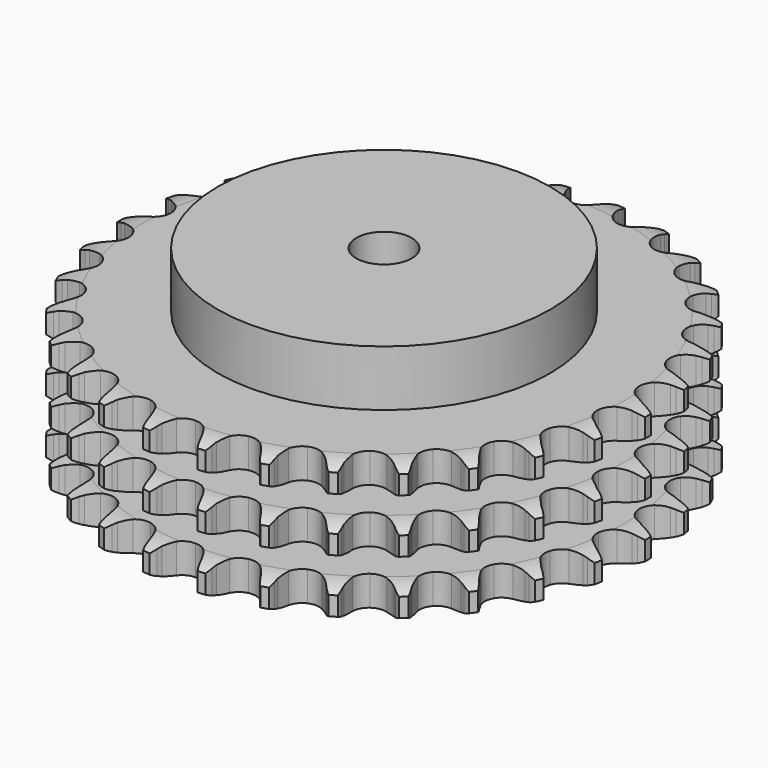
from build123d import *

# Parameters (mm, degrees)
PAD_DEPTH         = 49.8
SKETCH001_R       = 60
PAD001_DEPTH      = 70
SKETCH002_R       = 10
POCKET_DEPTH      = 0.001
POCKET_DEPTH_BACK = 70.001


with BuildPart() as part:
    # Sprocket → Pad (new body)
    with BuildSketch(Plane.XY):
        with BuildLine():
            ThreePointArc((-10.155366, 96.621854), (-8.659477, 94.892726), (-7.602598, 92.86527))
            Line((-7.602598, 92.86527), (-7.014029, 91.321265))
            ThreePointArc((-7.014029, 91.321265), (-6.080629, 89.310426), (-4.874292, 87.450463))
            ThreePointArc((-4.874292, 87.450463), (-2.723268, 85.661475), (0, 85.020231))
            ThreePointArc((0, 85.020231), (2.723268, 85.661475), (4.874292, 87.450463))
            ThreePointArc((4.874292, 87.450463), (6.080629, 89.310426), (7.014029, 91.321265))
            Line((7.014029, 91.321265), (7.602598, 92.86527))
            ThreePointArc((7.602598, 92.86527), (8.659477, 94.892726), (10.155366, 96.621854))
            ThreePointArc((10.155366, 96.621854), (11.259061, 94.619499), (11.871312, 92.41661))
            Line((11.871312, 92.41661), (12.126003, 90.783975))
            ThreePointArc((12.126003, 90.783975), (12.62093, 88.623013), (13.414196, 86.552883))
            ThreePointArc((13.414196, 86.552883), (15.146264, 84.355766), (17.6767, 83.162335))
            ThreePointArc((17.6767, 83.162335), (20.47378, 83.223367), (22.949751, 84.526038))
            Line((22.949751, 84.526038), (25.847514, 87.867378))
            ThreePointArc((25.847514, 87.867378), (26.277674, 88.573086), (26.744239, 89.255272))
            ThreePointArc((26.744239, 89.255272), (28.199553, 91.018686), (30.02226, 92.399016))
            ThreePointArc((30.02226, 92.399016), (30.685523, 90.210945), (30.826389, 87.928901))
            Line((30.826389, 87.928901), (30.736071, 86.27899))
            ThreePointArc((30.736071, 86.27899), (30.770892, 84.062349), (31.11642, 81.872526))
            ThreePointArc((31.11642, 81.872526), (32.353832, 79.363304), (34.580843, 77.669845))
            ThreePointArc((34.580843, 77.669845), (37.32949, 77.147999), (40.022195, 77.90742))
            Line((40.022195, 77.90742), (43.551339, 80.573264))
            ThreePointArc((43.551339, 80.573264), (44.118823, 81.174116), (44.717027, 81.744391))
            ThreePointArc((44.717027, 81.744391), (46.507174, 83.166693), (48.577037, 84.137897))
            ThreePointArc((48.577037, 84.137897), (48.770881, 81.859741), (48.434205, 79.598277))
            Line((48.434205, 79.598277), (48.002824, 78.003198))
            ThreePointArc((48.002824, 78.003198), (47.57602, 75.827756), (47.458707, 73.613948))
            ThreePointArc((47.458707, 73.613948), (48.147382, 70.902286), (49.973638, 68.782811))
            ThreePointArc((49.973638, 68.782811), (52.553722, 67.700892), (55.345478, 67.883874))
            Line((55.345478, 67.883874), (59.351762, 69.757713))
            ThreePointArc((59.351762, 69.757713), (60.031769, 70.227448), (60.735467, 70.660887))
            ThreePointArc((60.735467, 70.660887), (62.782209, 71.679916), (65.008765, 72.199548))
            ThreePointArc((65.008765, 72.199548), (64.724718, 69.930873), (63.925214, 67.788826))
            Line((63.925214, 67.788826), (63.171624, 66.318293))
            ThreePointArc((63.171624, 66.318293), (62.301846, 64.279127), (61.726821, 62.138086))
            ThreePointArc((61.726821, 62.138086), (61.83666, 59.342497), (63.182344, 56.889638))
            ThreePointArc((63.182344, 56.889638), (65.481104, 55.294932), (68.249897, 54.893476))
            Line((68.249897, 54.893476), (72.558227, 55.893414))
            ThreePointArc((72.558227, 55.893414), (73.321038, 56.211503), (74.099476, 56.489163))
            ThreePointArc((74.099476, 56.489163), (76.313359, 57.060382), (78.599297, 57.105732))
            ThreePointArc((78.599297, 57.105732), (77.849773, 54.94569), (76.622384, 53.016678))
            Line((76.622384, 53.016678), (75.579521, 51.73496))
            ThreePointArc((75.579521, 51.73496), (74.304784, 49.921192), (73.297176, 47.946492))
            ThreePointArc((73.297176, 47.946492), (72.82338, 45.189157), (73.629679, 42.510115))
            ThreePointArc((73.629679, 42.510115), (75.546647, 40.472318), (78.171469, 39.503971))
            Line((78.171469, 39.503971), (82.59355, 39.586305))
            ThreePointArc((82.59355, 39.586305), (83.405826, 39.738846), (84.224982, 39.848592))
            ThreePointArc((84.224982, 39.848592), (86.50925, 39.947036), (88.754664, 39.516122))
            ThreePointArc((88.754664, 39.516122), (87.57242, 37.559117), (85.970788, 35.927447))
            Line((85.970788, 35.927447), (84.68423, 34.890561))
            ThreePointArc((84.68423, 34.890561), (83.060245, 33.381461), (81.664094, 31.659407))
            ThreePointArc((81.664094, 31.659407), (80.627368, 29.060833), (80.859044, 26.272696))
            ThreePointArc((80.859044, 26.272696), (82.31044, 23.88087), (84.676572, 22.387952))
            Line((84.676572, 22.387952), (89.019139, 21.549085))
            ThreePointArc((89.019139, 21.549085), (89.845379, 21.52941), (90.669453, 21.466446))
            ThreePointArc((90.669453, 21.466446), (92.924271, 21.087813), (95.031025, 20.199468))
            ThreePointArc((95.031025, 20.199468), (93.467732, 18.53103), (91.561857, 17.268014))
            Line((91.561857, 17.268014), (90.087832, 16.521277))
            ThreePointArc((90.087832, 16.521277), (88.185575, 15.3828), (86.461898, 13.988653))
            ThreePointArc((86.461898, 13.988653), (84.907553, 11.662412), (84.554481, 8.887034))
            ThreePointArc((84.554481, 8.887034), (85.476872, 6.245713), (87.480902, 4.293472))
            Line((87.480902, 4.293472), (91.554163, 2.570066))
            ThreePointArc((91.554163, 2.570066), (92.358258, 2.379036), (93.151233, 2.146114))
            ThreePointArc((93.151233, 2.146114), (95.278056, 1.306952), (97.154075, 0))
            ThreePointArc((97.154075, 0), (95.278056, -1.306952), (93.151233, -2.146114))
            Line((93.151233, -2.146114), (91.554163, -2.570066))
            ThreePointArc((91.554163, -2.570066), (89.456773, -3.288163), (87.480902, -4.293472))
            ThreePointArc((87.480902, -4.293472), (85.476872, -6.245713), (84.554481, -8.887034))
            ThreePointArc((84.554481, -8.887034), (84.907553, -11.662412), (86.461898, -13.988653))
            Line((86.461898, -13.988653), (90.087832, -16.521277))
            ThreePointArc((90.087832, -16.521277), (90.834638, -16.875313), (91.561857, -17.268014))
            ThreePointArc((91.561857, -17.268014), (93.467732, -18.53103), (95.031025, -20.199468))
            ThreePointArc((95.031025, -20.199468), (92.924271, -21.087813), (90.669453, -21.466446))
            Line((90.669453, -21.466446), (89.019139, -21.549085))
            ThreePointArc((89.019139, -21.549085), (86.81828, -21.815418), (84.676572, -22.387952))
            ThreePointArc((84.676572, -22.387952), (82.31044, -23.88087), (80.859044, -26.272696))
            ThreePointArc((80.859044, -26.272696), (80.627368, -29.060833), (81.664094, -31.659407))
            Line((81.664094, -31.659407), (84.68423, -34.890561))
            ThreePointArc((84.68423, -34.890561), (85.341109, -35.39213), (85.970788, -35.927447))
            ThreePointArc((85.970788, -35.927447), (87.57242, -37.559117), (88.754664, -39.516122))
            ThreePointArc((88.754664, -39.516122), (86.50925, -39.947036), (84.224982, -39.848592))
            Line((84.224982, -39.848592), (82.59355, -39.586305))
            ThreePointArc((82.59355, -39.586305), (80.385412, -39.389234), (78.171469, -39.503971))
            ThreePointArc((78.171469, -39.503971), (75.546647, -40.472318), (73.629679, -42.510115))
            ThreePointArc((73.629679, -42.510115), (72.82338, -45.189157), (73.297176, -47.946492))
            Line((73.297176, -47.946492), (75.579521, -51.73496))
            ThreePointArc((75.579521, -51.73496), (76.117763, -52.362141), (76.622384, -53.016678))
            ThreePointArc((76.622384, -53.016678), (77.849773, -54.94569), (78.599297, -57.105732))
            ThreePointArc((78.599297, -57.105732), (76.313359, -57.060382), (74.099476, -56.489163))
            Line((74.099476, -56.489163), (72.558227, -55.893414))
            ThreePointArc((72.558227, -55.893414), (70.439316, -55.241552), (68.249897, -54.893476))
            ThreePointArc((68.249897, -54.893476), (65.481104, -55.294932), (63.182344, -56.889638))
            ThreePointArc((63.182344, -56.889638), (61.83666, -59.342497), (61.726821, -62.138086))
            Line((61.726821, -62.138086), (63.171624, -66.318293))
            ThreePointArc((63.171624, -66.318293), (63.567706, -67.043676), (63.925214, -67.788826))
            ThreePointArc((63.925214, -67.788826), (64.724718, -69.930873), (65.008765, -72.199548))
            ThreePointArc((65.008765, -72.199548), (62.782209, -71.679916), (60.735467, -70.660887))
            Line((60.735467, -70.660887), (59.351762, -69.757713))
            ThreePointArc((59.351762, -69.757713), (57.414683, -68.679549), (55.345478, -67.883874))
            ThreePointArc((55.345478, -67.883874), (52.553722, -67.700892), (49.973638, -68.782811))
            ThreePointArc((49.973638, -68.782811), (48.147382, -70.902286), (47.458707, -73.613948))
            Line((47.458707, -73.613948), (48.002824, -78.003198))
            ThreePointArc((48.002824, -78.003198), (48.239435, -78.79508), (48.434205, -79.598277))
            ThreePointArc((48.434205, -79.598277), (48.770881, -81.859741), (48.577037, -84.137897))
            ThreePointArc((48.577037, -84.137897), (46.507174, -83.166693), (44.717027, -81.744391))
            Line((44.717027, -81.744391), (43.551339, -80.573264))
            ThreePointArc((43.551339, -80.573264), (41.880753, -79.11592), (40.022195, -77.90742))
            ThreePointArc((40.022195, -77.90742), (37.32949, -77.147999), (34.580843, -77.669845))
            ThreePointArc((34.580843, -77.669845), (32.353832, -79.363304), (31.11642, -81.872526))
            Line((31.11642, -81.872526), (30.736071, -86.27899))
            ThreePointArc((30.736071, -86.27899), (30.802869, -87.102761), (30.826389, -87.928901))
            ThreePointArc((30.826389, -87.928901), (30.685523, -90.210945), (30.02226, -92.399016))
            ThreePointArc((30.02226, -92.399016), (28.199553, -91.018686), (26.744239, -89.255272))
            Line((26.744239, -89.255272), (25.847514, -87.867378))
            ThreePointArc((25.847514, -87.867378), (24.516434, -86.094545), (22.949751, -84.526038))
            ThreePointArc((22.949751, -84.526038), (20.47378, -83.223367), (17.6767, -83.162335))
            ThreePointArc((17.6767, -83.162335), (15.146264, -84.355766), (13.414196, -86.552883))
            Line((13.414196, -86.552883), (12.126003, -90.783975))
            ThreePointArc((12.126003, -90.783975), (12.02007, -91.603633), (11.871312, -92.41661))
            ThreePointArc((11.871312, -92.41661), (11.259061, -94.619499), (10.155366, -96.621854))
            ThreePointArc((10.155366, -96.621854), (8.659477, -94.892726), (7.602598, -92.86527))
            Line((7.602598, -92.86527), (7.014029, -91.321265))
            ThreePointArc((7.014029, -91.321265), (6.080629, -89.310426), (4.874292, -87.450463))
            ThreePointArc((4.874292, -87.450463), (2.723268, -85.661475), (0, -85.020231))
            ThreePointArc((0, -85.020231), (-2.723268, -85.661475), (-4.874292, -87.450463))
            Line((-4.874292, -87.450463), (-7.014029, -91.321265))
            ThreePointArc((-7.014029, -91.321265), (-7.288063, -92.100987), (-7.602598, -92.86527))
            ThreePointArc((-7.602598, -92.86527), (-8.659477, -94.892726), (-10.155366, -96.621854))
            ThreePointArc((-10.155366, -96.621854), (-11.259061, -94.619499), (-11.871312, -92.41661))
            Line((-11.871312, -92.41661), (-12.126003, -90.783975))
            ThreePointArc((-12.126003, -90.783975), (-12.62093, -88.623013), (-13.414196, -86.552883))
            ThreePointArc((-13.414196, -86.552883), (-15.146264, -84.355766), (-17.6767, -83.162335))
            ThreePointArc((-17.6767, -83.162335), (-20.47378, -83.223367), (-22.949751, -84.526038))
            Line((-22.949751, -84.526038), (-25.847514, -87.867378))
            ThreePointArc((-25.847514, -87.867378), (-26.277674, -88.573086), (-26.744239, -89.255272))
            ThreePointArc((-26.744239, -89.255272), (-28.199553, -91.018686), (-30.02226, -92.399016))
            ThreePointArc((-30.02226, -92.399016), (-30.685523, -90.210945), (-30.826389, -87.928901))
            Line((-30.826389, -87.928901), (-30.736071, -86.27899))
            ThreePointArc((-30.736071, -86.27899), (-30.770892, -84.062349), (-31.11642, -81.872526))
            ThreePointArc((-31.11642, -81.872526), (-32.353832, -79.363304), (-34.580843, -77.669845))
            ThreePointArc((-34.580843, -77.669845), (-37.32949, -77.147999), (-40.022195, -77.90742))
            Line((-40.022195, -77.90742), (-43.551339, -80.573264))
            ThreePointArc((-43.551339, -80.573264), (-44.118823, -81.174116), (-44.717027, -81.744391))
            ThreePointArc((-44.717027, -81.744391), (-46.507174, -83.166693), (-48.577037, -84.137897))
            ThreePointArc((-48.577037, -84.137897), (-48.770881, -81.859741), (-48.434205, -79.598277))
            Line((-48.434205, -79.598277), (-48.002824, -78.003198))
            ThreePointArc((-48.002824, -78.003198), (-47.57602, -75.827756), (-47.458707, -73.613948))
            ThreePointArc((-47.458707, -73.613948), (-48.147382, -70.902286), (-49.973638, -68.782811))
            ThreePointArc((-49.973638, -68.782811), (-52.553722, -67.700892), (-55.345478, -67.883874))
            Line((-55.345478, -67.883874), (-59.351762, -69.757713))
            ThreePointArc((-59.351762, -69.757713), (-60.031769, -70.227448), (-60.735467, -70.660887))
            ThreePointArc((-60.735467, -70.660887), (-62.782209, -71.679916), (-65.008765, -72.199548))
            ThreePointArc((-65.008765, -72.199548), (-64.724718, -69.930873), (-63.925214, -67.788826))
            Line((-63.925214, -67.788826), (-63.171624, -66.318293))
            ThreePointArc((-63.171624, -66.318293), (-62.301846, -64.279127), (-61.726821, -62.138086))
            ThreePointArc((-61.726821, -62.138086), (-61.83666, -59.342497), (-63.182344, -56.889638))
            ThreePointArc((-63.182344, -56.889638), (-65.481104, -55.294932), (-68.249897, -54.893476))
            Line((-68.249897, -54.893476), (-72.558227, -55.893414))
            ThreePointArc((-72.558227, -55.893414), (-73.321038, -56.211503), (-74.099476, -56.489163))
            ThreePointArc((-74.099476, -56.489163), (-76.313359, -57.060382), (-78.599297, -57.105732))
            ThreePointArc((-78.599297, -57.105732), (-77.849773, -54.94569), (-76.622384, -53.016678))
            Line((-76.622384, -53.016678), (-75.579521, -51.73496))
            ThreePointArc((-75.579521, -51.73496), (-74.304784, -49.921192), (-73.297176, -47.946492))
            ThreePointArc((-73.297176, -47.946492), (-72.82338, -45.189157), (-73.629679, -42.510115))
            ThreePointArc((-73.629679, -42.510115), (-75.546647, -40.472318), (-78.171469, -39.503971))
            Line((-78.171469, -39.503971), (-82.59355, -39.586305))
            ThreePointArc((-82.59355, -39.586305), (-83.405826, -39.738846), (-84.224982, -39.848592))
            ThreePointArc((-84.224982, -39.848592), (-86.50925, -39.947036), (-88.754664, -39.516122))
            ThreePointArc((-88.754664, -39.516122), (-87.57242, -37.559117), (-85.970788, -35.927447))
            Line((-85.970788, -35.927447), (-84.68423, -34.890561))
            ThreePointArc((-84.68423, -34.890561), (-83.060245, -33.381461), (-81.664094, -31.659407))
            ThreePointArc((-81.664094, -31.659407), (-80.627368, -29.060833), (-80.859044, -26.272696))
            ThreePointArc((-80.859044, -26.272696), (-82.31044, -23.88087), (-84.676572, -22.387952))
            Line((-84.676572, -22.387952), (-89.019139, -21.549085))
            ThreePointArc((-89.019139, -21.549085), (-89.845379, -21.52941), (-90.669453, -21.466446))
            ThreePointArc((-90.669453, -21.466446), (-92.924271, -21.087813), (-95.031025, -20.199468))
            ThreePointArc((-95.031025, -20.199468), (-93.467732, -18.53103), (-91.561857, -17.268014))
            Line((-91.561857, -17.268014), (-90.087832, -16.521277))
            ThreePointArc((-90.087832, -16.521277), (-88.185575, -15.3828), (-86.461898, -13.988653))
            ThreePointArc((-86.461898, -13.988653), (-84.907553, -11.662412), (-84.554481, -8.887034))
            ThreePointArc((-84.554481, -8.887034), (-85.476872, -6.245713), (-87.480902, -4.293472))
            Line((-87.480902, -4.293472), (-91.554163, -2.570066))
            ThreePointArc((-91.554163, -2.570066), (-92.358258, -2.379036), (-93.151233, -2.146114))
            ThreePointArc((-93.151233, -2.146114), (-95.278056, -1.306952), (-97.154075, 0))
            ThreePointArc((-97.154075, 0), (-95.278056, 1.306952), (-93.151233, 2.146114))
            Line((-93.151233, 2.146114), (-91.554163, 2.570066))
            ThreePointArc((-91.554163, 2.570066), (-89.456773, 3.288163), (-87.480902, 4.293472))
            ThreePointArc((-87.480902, 4.293472), (-85.476872, 6.245713), (-84.554481, 8.887034))
            ThreePointArc((-84.554481, 8.887034), (-84.907553, 11.662412), (-86.461898, 13.988653))
            Line((-86.461898, 13.988653), (-90.087832, 16.521277))
            ThreePointArc((-90.087832, 16.521277), (-90.834638, 16.875313), (-91.561857, 17.268014))
            ThreePointArc((-91.561857, 17.268014), (-93.467732, 18.53103), (-95.031025, 20.199468))
            ThreePointArc((-95.031025, 20.199468), (-92.924271, 21.087813), (-90.669453, 21.466446))
            Line((-90.669453, 21.466446), (-89.019139, 21.549085))
            ThreePointArc((-89.019139, 21.549085), (-86.81828, 21.815418), (-84.676572, 22.387952))
            ThreePointArc((-84.676572, 22.387952), (-82.31044, 23.88087), (-80.859044, 26.272696))
            ThreePointArc((-80.859044, 26.272696), (-80.627368, 29.060833), (-81.664094, 31.659407))
            Line((-81.664094, 31.659407), (-84.68423, 34.890561))
            ThreePointArc((-84.68423, 34.890561), (-85.341109, 35.39213), (-85.970788, 35.927447))
            ThreePointArc((-85.970788, 35.927447), (-87.57242, 37.559117), (-88.754664, 39.516122))
            ThreePointArc((-88.754664, 39.516122), (-86.50925, 39.947036), (-84.224982, 39.848592))
            Line((-84.224982, 39.848592), (-82.59355, 39.586305))
            ThreePointArc((-82.59355, 39.586305), (-80.385412, 39.389234), (-78.171469, 39.503971))
            ThreePointArc((-78.171469, 39.503971), (-75.546647, 40.472318), (-73.629679, 42.510115))
            ThreePointArc((-73.629679, 42.510115), (-72.82338, 45.189157), (-73.297176, 47.946492))
            Line((-73.297176, 47.946492), (-75.579521, 51.73496))
            ThreePointArc((-75.579521, 51.73496), (-76.117763, 52.362141), (-76.622384, 53.016678))
            ThreePointArc((-76.622384, 53.016678), (-77.849773, 54.94569), (-78.599297, 57.105732))
            ThreePointArc((-78.599297, 57.105732), (-76.313359, 57.060382), (-74.099476, 56.489163))
            Line((-74.099476, 56.489163), (-72.558227, 55.893414))
            ThreePointArc((-72.558227, 55.893414), (-70.439316, 55.241552), (-68.249897, 54.893476))
            ThreePointArc((-68.249897, 54.893476), (-65.481104, 55.294932), (-63.182344, 56.889638))
            ThreePointArc((-63.182344, 56.889638), (-61.83666, 59.342497), (-61.726821, 62.138086))
            Line((-61.726821, 62.138086), (-63.171624, 66.318293))
            ThreePointArc((-63.171624, 66.318293), (-63.567706, 67.043676), (-63.925214, 67.788826))
            ThreePointArc((-63.925214, 67.788826), (-64.724718, 69.930873), (-65.008765, 72.199548))
            ThreePointArc((-65.008765, 72.199548), (-62.782209, 71.679916), (-60.735467, 70.660887))
            Line((-60.735467, 70.660887), (-59.351762, 69.757713))
            ThreePointArc((-59.351762, 69.757713), (-57.414683, 68.679549), (-55.345478, 67.883874))
            ThreePointArc((-55.345478, 67.883874), (-52.553722, 67.700892), (-49.973638, 68.782811))
            ThreePointArc((-49.973638, 68.782811), (-48.147382, 70.902286), (-47.458707, 73.613948))
            Line((-47.458707, 73.613948), (-48.002824, 78.003198))
            ThreePointArc((-48.002824, 78.003198), (-48.239435, 78.79508), (-48.434205, 79.598277))
            ThreePointArc((-48.434205, 79.598277), (-48.770881, 81.859741), (-48.577037, 84.137897))
            ThreePointArc((-48.577037, 84.137897), (-46.507174, 83.166693), (-44.717027, 81.744391))
            Line((-44.717027, 81.744391), (-43.551339, 80.573264))
            ThreePointArc((-43.551339, 80.573264), (-41.880753, 79.11592), (-40.022195, 77.90742))
            ThreePointArc((-40.022195, 77.90742), (-37.32949, 77.147999), (-34.580843, 77.669845))
            ThreePointArc((-34.580843, 77.669845), (-32.353832, 79.363304), (-31.11642, 81.872526))
            Line((-31.11642, 81.872526), (-30.736071, 86.27899))
            ThreePointArc((-30.736071, 86.27899), (-30.802869, 87.102761), (-30.826389, 87.928901))
            ThreePointArc((-30.826389, 87.928901), (-30.685523, 90.210945), (-30.02226, 92.399016))
            ThreePointArc((-30.02226, 92.399016), (-28.199553, 91.018686), (-26.744239, 89.255272))
            Line((-26.744239, 89.255272), (-25.847514, 87.867378))
            ThreePointArc((-25.847514, 87.867378), (-24.516434, 86.094545), (-22.949751, 84.526038))
            ThreePointArc((-22.949751, 84.526038), (-20.47378, 83.223367), (-17.6767, 83.162335))
            ThreePointArc((-17.6767, 83.162335), (-15.146264, 84.355766), (-13.414196, 86.552883))
            Line((-13.414196, 86.552883), (-12.126003, 90.783975))
            ThreePointArc((-12.126003, 90.783975), (-12.02007, 91.603633), (-11.871312, 92.41661))
            ThreePointArc((-11.871312, 92.41661), (-11.259061, 94.619499), (-10.155366, 96.621854))
        make_face()
    extrude(amount=PAD_DEPTH)

    # Sketch → Groove (revolve, cut)
    with BuildSketch(Plane.XZ):
        with BuildLine():
            ThreePointArc((86.764719, 0), (91.123618, 0.506758), (95.25, 2))
            Line((95.25, 2), (95.25, 8.8))
            ThreePointArc((95.25, 8.8), (91.123618, 10.293242), (86.764719, 10.8))
            Line((60, 10.8), (86.764719, 10.8))
            Line((60, 10.8), (60, 19.5))
            Line((60, 19.5), (86.764719, 19.5))
            ThreePointArc((86.764719, 19.5), (91.123618, 20.006758), (95.25, 21.5))
            Line((95.25, 28.3), (95.25, 21.5))
            ThreePointArc((95.25, 28.3), (91.123618, 29.793242), (86.764719, 30.3))
            Line((60, 30.3), (86.764719, 30.3))
            Line((60, 39), (60, 30.3))
            Line((86.764719, 39), (60, 39))
            ThreePointArc((86.764719, 39), (91.123618, 39.506758), (95.25, 41))
            Line((95.25, 41), (95.25, 47.8))
            ThreePointArc((95.25, 47.8), (91.123618, 49.293242), (86.764719, 49.8))
            Line((86.764719, 49.8), (105.25, 49.8))
            Line((105.25, 49.8), (105.25, 0))
            Line((86.764719, 0), (105.25, 0))
        make_face()
    revolve(axis=Axis((0, 0, 0), (0, 0, 1)), mode=Mode.SUBTRACT)

    # Sketch001 → Pad001 (join)
    with BuildSketch(Plane.XY):
        Circle(SKETCH001_R)
    extrude(amount=PAD001_DEPTH)

    # Sketch002 → Pocket (cut, two sides)
    with BuildSketch(Plane.XY) as pocket_sk:
        Circle(SKETCH002_R)
    extrude(amount=-POCKET_DEPTH, mode=Mode.SUBTRACT)
    extrude(pocket_sk.sketch, amount=POCKET_DEPTH_BACK, mode=Mode.SUBTRACT)


solid = part.part
